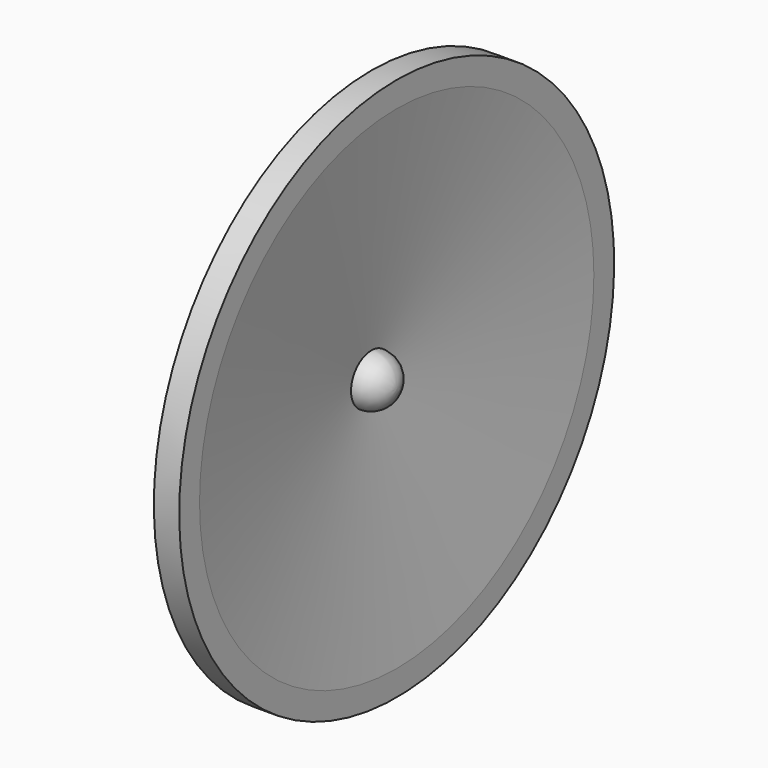
from build123d import *


with BuildPart() as f1:
    # F0 (on Front) → F1 (revolve)
    with BuildSketch(Plane.XZ):
        Polygon((0, 37.5), (0, 3.5), (3.5, 34), (3.5, 37.5), align=None)
        with BuildLine():
            Line((0, 3.5), (0, 0))
            Line((0, 0), (3.5, 0))
            ThreePointArc((3.5, 0), (2.474874, 2.474874), (0, 3.5))
        make_face()
    revolve(axis=Axis((1.75, 0, 0), (1, 0, 0)))


solid = f1.part
